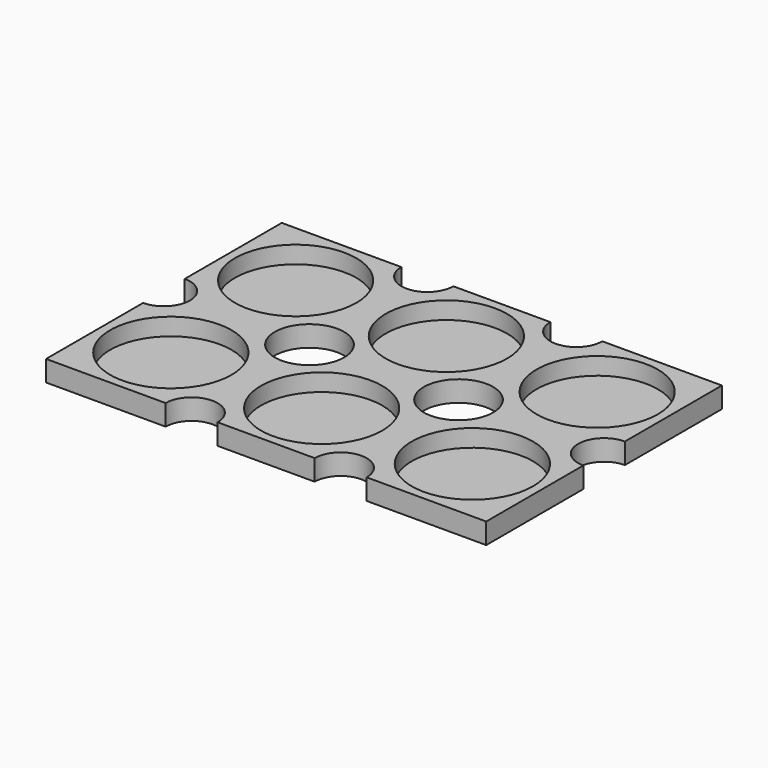
from build123d import *

# Parameters (mm, degrees)
F0_R     = 17.5
F0_R_2   = 10
F1_DEPTH = 6
F2_DEPTH = 1


with BuildPart() as f1:
    # F0 (on Top) → F1 (new body)
    with BuildSketch(Plane.XY):
        with BuildLine():
            Line((63.5, 42.5), (29, 42.5))
            ThreePointArc((29, 42.5), (21.5, 35), (14, 42.5))
            Line((14, 42.5), (-14.000001, 42.5))
            ThreePointArc((-14.000001, 42.5), (-21.500001, 35), (-29.000001, 42.5))
            Line((-29.000001, 42.5), (-63.5, 42.5))
            Line((-63.5, 42.5), (-63.5, 7.5))
            ThreePointArc((-63.5, 7.5), (-58.196699, 5.303301), (-56, 0))
            ThreePointArc((-56, 0), (-58.196699, -5.303301), (-63.5, -7.5))
            Line((-63.5, -7.5), (-63.5, -42.5))
            Line((-63.5, -42.5), (-29.000001, -42.5))
            ThreePointArc((-29.000001, -42.5), (-21.500001, -35), (-14.000001, -42.5))
            Line((-14.000001, -42.5), (14, -42.5))
            ThreePointArc((14, -42.5), (21.5, -35), (29, -42.5))
            Line((29, -42.5), (63.5, -42.5))
            Line((63.5, -42.5), (63.5, -7.5))
            ThreePointArc((63.5, -7.5), (56, 0), (63.5, 7.5))
            Line((63.5, 7.5), (63.5, 42.5))
        make_face()
        with Locations((-43.5, -22.5)):
            Circle(F0_R, mode=Mode.SUBTRACT)
        with Locations((0, -22.5)):
            Circle(F0_R, mode=Mode.SUBTRACT)
        with Locations((43.5, -22.5)):
            Circle(F0_R, mode=Mode.SUBTRACT)
        with Locations((-43.5, 22.5)):
            Circle(F0_R, mode=Mode.SUBTRACT)
        with Locations((-21.500001, 0)):
            Circle(F0_R_2, mode=Mode.SUBTRACT)
        with Locations((21.5, 0)):
            Circle(F0_R_2, mode=Mode.SUBTRACT)
        with Locations((0, 22.5)):
            Circle(F0_R, mode=Mode.SUBTRACT)
        with Locations((43.5, 22.5)):
            Circle(F0_R, mode=Mode.SUBTRACT)
    extrude(amount=F1_DEPTH)

    # F0 (on Top) → F2 (join)
    with BuildSketch(Plane.XY):
        with Locations((-43.5, 22.5)):
            Circle(F0_R)
        with Locations((0, 22.5)):
            Circle(F0_R)
        with Locations((43.5, 22.5)):
            Circle(F0_R)
        with Locations((43.5, -22.5)):
            Circle(F0_R)
        with Locations((0, -22.5)):
            Circle(F0_R)
        with Locations((-43.5, -22.5)):
            Circle(F0_R)
    extrude(amount=F2_DEPTH)


solid = f1.part
